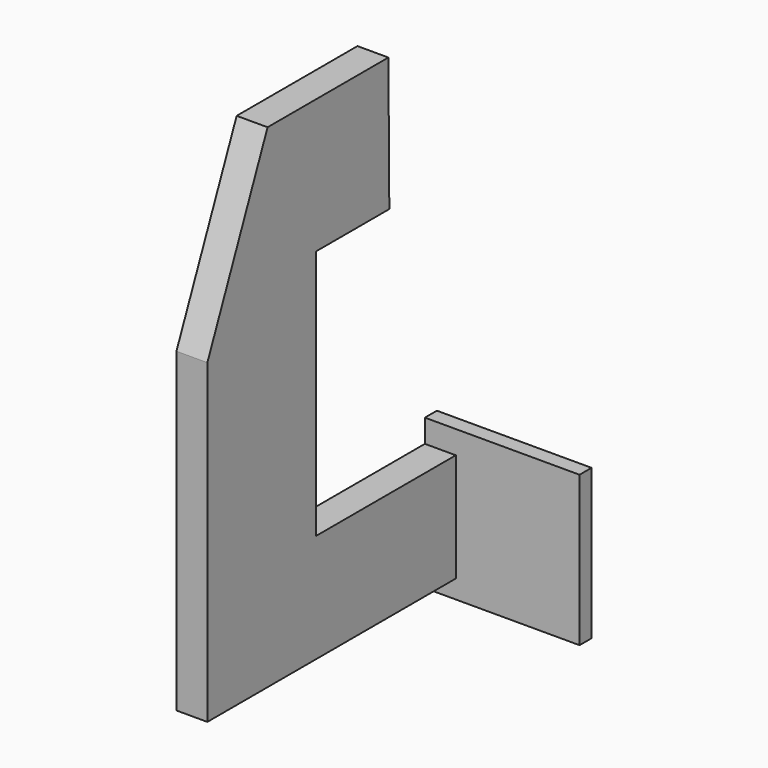
from build123d import *

# Parameters (mm, degrees)
F1_DEPTH = 5
F2_W     = 2.42595
F2_H     = 24.259482
F3_DEPTH = 25


with BuildPart() as f1:
    # F0 (on Right) → F1 (new body)
    with BuildSketch(Plane.YZ):
        Polygon((14.835605, 0), (14.648993, 21.646921), (-9.762866, 21.646921), (-21.926837, -6.904621), (-21.926837, -58.036141), (28.271621, -58.036141), (28.271621, -40.494673), (0, -40.494673), (0, 0), align=None)
    extrude(amount=F1_DEPTH)

    # F2 (on Right) → F3 (join)
    with BuildSketch(Plane.YZ):
        with Locations((29.484596, -48.892183)):
            Rectangle(F2_W, F2_H)
    extrude(amount=F3_DEPTH)


solid = f1.part
